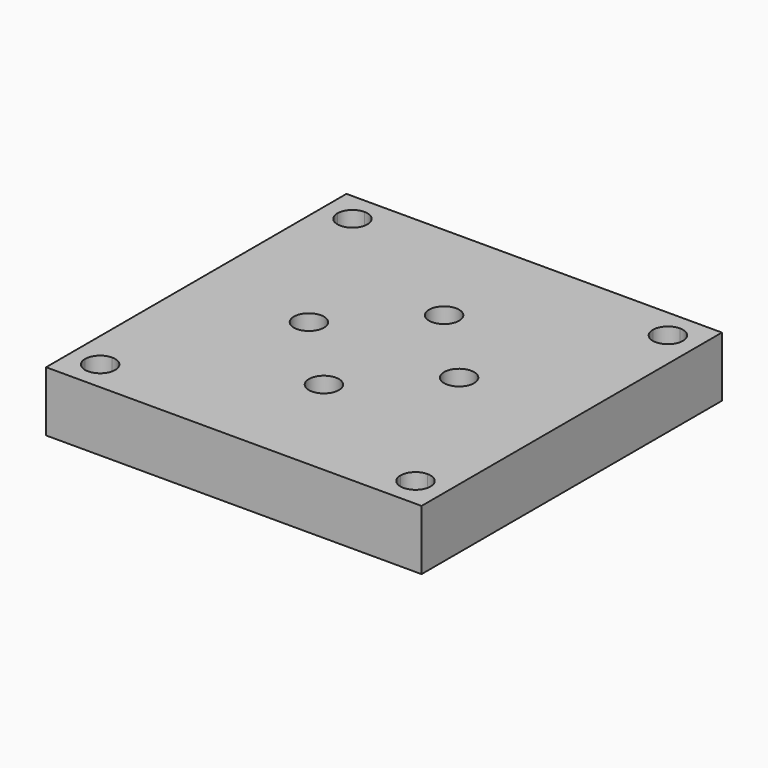
from build123d import *

# Parameters (mm, degrees)
F0_R     = 50
F1_DEPTH = 20
F2_R     = 5
F3_DEPTH = 25


with BuildPart() as f1:
    # F0 (on Top) → F1 (new body)
    with BuildSketch(Plane.XY):
        with BuildLine():
            Line((-62.5, 52.5), (-62.5, -52.5))
            Line((-62.5, -52.5), (-57.5, -52.5))
            ThreePointArc((-57.5, -52.5), (-56.0355339059, -48.9644660941), (-52.5, -47.5))
            Line((-52.5, -47.5), (-52.5, 47.5))
            ThreePointArc((-52.5, 47.5), (-56.0355339059, 48.9644660941), (-57.5, 52.5))
            Line((-57.5, 52.5), (-62.5, 52.5))
        make_face()
        with BuildLine():
            Line((-47.5, -52.5), (47.5, -52.5))
            ThreePointArc((47.5, -52.5), (48.9644660941, -48.9644660941), (52.5, -47.5))
            Line((52.5, -47.5), (52.5, 47.5))
            ThreePointArc((52.5, 47.5), (48.9644660941, 48.9644660941), (47.5, 52.5))
            Line((47.5, 52.5), (-47.5, 52.5))
            ThreePointArc((-47.5, 52.5), (-48.9644660941, 48.9644660941), (-52.5, 47.5))
            Line((-52.5, 47.5), (-52.5, -47.5))
            ThreePointArc((-52.5, -47.5), (-48.9644660941, -48.9644660941), (-47.5, -52.5))
        make_face()
        Circle(F0_R, mode=Mode.SUBTRACT)
        with BuildLine():
            Line((52.5, 57.5), (52.5, 62.5))
            Line((52.5, 62.5), (-52.5, 62.5))
            Line((-52.5, 62.5), (-52.5, 57.5))
            ThreePointArc((-52.5, 57.5), (-48.9644660941, 56.0355339059), (-47.5, 52.5))
            Line((-47.5, 52.5), (47.5, 52.5))
            ThreePointArc((47.5, 52.5), (48.9644660941, 56.0355339059), (52.5, 57.5))
        make_face()
        with BuildLine():
            Line((57.5, 52.5), (62.5, 52.5))
            Line((62.5, 52.5), (62.5, 62.5))
            Line((62.5, 62.5), (52.5, 62.5))
            Line((52.5, 62.5), (52.5, 57.5))
            ThreePointArc((52.5, 57.5), (56.0355339059, 56.0355339059), (57.5, 52.5))
        make_face()
        with BuildLine():
            Line((57.5, -52.5), (62.5, -52.5))
            Line((62.5, -52.5), (62.5, 52.5))
            Line((62.5, 52.5), (57.5, 52.5))
            ThreePointArc((57.5, 52.5), (56.0355339059, 48.9644660941), (52.5, 47.5))
            Line((52.5, 47.5), (52.5, -47.5))
            ThreePointArc((52.5, -47.5), (56.0355339059, -48.9644660941), (57.5, -52.5))
        make_face()
        with BuildLine():
            Line((52.5, -62.5), (62.5, -62.5))
            Line((62.5, -62.5), (62.5, -52.5))
            Line((62.5, -52.5), (57.5, -52.5))
            ThreePointArc((57.5, -52.5), (56.0355339059, -56.0355339059), (52.5, -57.5))
            Line((52.5, -57.5), (52.5, -62.5))
        make_face()
        with BuildLine():
            Line((-52.5, -62.5), (52.5, -62.5))
            Line((52.5, -62.5), (52.5, -57.5))
            ThreePointArc((52.5, -57.5), (48.9644660941, -56.0355339059), (47.5, -52.5))
            Line((47.5, -52.5), (-47.5, -52.5))
            ThreePointArc((-47.5, -52.5), (-48.9644660941, -56.0355339059), (-52.5, -57.5))
            Line((-52.5, -57.5), (-52.5, -62.5))
        make_face()
        with BuildLine():
            Line((-62.5, -62.5), (-52.5, -62.5))
            Line((-52.5, -62.5), (-52.5, -57.5))
            ThreePointArc((-52.5, -57.5), (-56.0355339059, -56.0355339059), (-57.5, -52.5))
            Line((-57.5, -52.5), (-62.5, -52.5))
            Line((-62.5, -52.5), (-62.5, -62.5))
        make_face()
        with BuildLine():
            Line((-62.5, 62.5), (-62.5, 52.5))
            Line((-62.5, 52.5), (-57.5, 52.5))
            ThreePointArc((-57.5, 52.5), (-56.0355339059, 56.0355339059), (-52.5, 57.5))
            Line((-52.5, 57.5), (-52.5, 62.5))
            Line((-52.5, 62.5), (-62.5, 62.5))
        make_face()
        Circle(F0_R)
    extrude(amount=F1_DEPTH)

    # F2 (on face) → F3 (cut)
    with BuildSketch(Plane.XY.offset(20)):
        with Locations((-25, 0)):
            Circle(F2_R)
        with Locations((0, 25)):
            Circle(F2_R)
        with Locations((25, 0)):
            Circle(F2_R)
        with Locations((0, -25)):
            Circle(F2_R)
    extrude(amount=-F3_DEPTH, mode=Mode.SUBTRACT)


solid = f1.part
